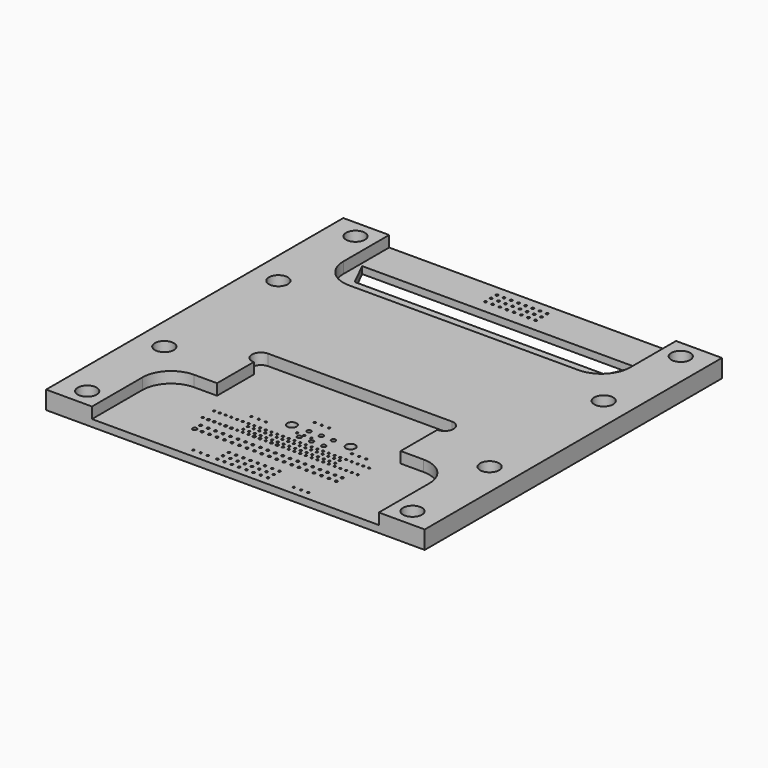
from build123d import *

# Parameters (mm, degrees)
F0_W     = 132
F0_H     = 129.5
F1_DEPTH = 6.3
F3_DEPTH = 3.85
F5_DEPTH = 25
F6_R     = 3.3
F7_DEPTH = 25
F8_R     = 0.425
F8_R_2   = 0.4
F8_R_3   = 0.45
F8_R_4   = 0.74
F8_R_5   = 0.35
F8_R_6   = 0.465
F8_R_7   = 0.75
F8_R_8   = 1.65
F9_DEPTH = 25


with BuildPart() as f1:
    # F0 (on Top) → F1 (new body)
    with BuildSketch(Plane.XY):
        Rectangle(F0_W, F0_H)
    extrude(amount=F1_DEPTH)

    # F2 (on face) → F3 (cut)
    with BuildSketch(Plane.XY.offset(6.3)):
        with BuildLine():
            Line((-50, -42.75), (-50, -64.75))
            Line((-50, -64.75), (50, -64.75))
            Line((50, -64.75), (50, -42.75))
            ThreePointArc((50, -42.75), (47.071068, -35.678932), (40, -32.75))
            Line((40, -32.75), (32, -32.75))
            Line((32, -32.75), (32, -16.75))
            ThreePointArc((32, -16.75), (35.15, -13.6), (32, -10.45))
            Line((32, -10.45), (-32, -10.45))
            ThreePointArc((-32, -10.45), (-35.15, -13.6), (-32, -16.75))
            Line((-32, -16.75), (-32, -32.75))
            Line((-32, -32.75), (-40, -32.75))
            ThreePointArc((-40, -32.75), (-47.071068, -35.678932), (-50, -42.75))
        make_face()
        with BuildLine():
            Line((50, 64.75), (-50, 64.75))
            Line((-50, 64.75), (-50, 44.75))
            ThreePointArc((-50, 44.75), (-47.071068, 37.678932), (-40, 34.75))
            Line((-40, 34.75), (40, 34.75))
            ThreePointArc((40, 34.75), (47.071068, 37.678932), (50, 44.75))
            Line((50, 44.75), (50, 64.75))
        make_face()
    extrude(amount=-F3_DEPTH, mode=Mode.SUBTRACT)

    # F4 (on face) → F5 (cut)
    with BuildSketch(Plane.XY.offset(2.45)):
        Polygon((46.5369, 51.62), (-48.897639, 51.62), (-44.645671, 43.02), (42.682353, 43.02), align=None)
    extrude(amount=-F5_DEPTH, mode=Mode.SUBTRACT)

    # F6 (on face) → F7 (cut)
    with BuildSketch(Plane.XY.offset(6.3)):
        with Locations((-56.7, 58.45)):
            Circle(F6_R)
        with Locations((-56.7, 24.85)):
            Circle(F6_R)
        with Locations((-56.7, -24.85)):
            Circle(F6_R)
        with Locations((-56.7, -58.45)):
            Circle(F6_R)
        with Locations((56.7, -58.45)):
            Circle(F6_R)
        with Locations((56.7, -24.85)):
            Circle(F6_R)
        with Locations((56.7, 24.85)):
            Circle(F6_R)
        with Locations((56.7, 58.45)):
            Circle(F6_R)
    extrude(amount=-F7_DEPTH, mode=Mode.SUBTRACT)

    # F8 (on face) → F9 (cut)
    with BuildSketch(Plane.XY.offset(2.45)):
        with Locations((-9.575, 61.175)):
            Circle(F8_R)
        with Locations((-8.6, -61.85)):
            Circle(F8_R_2)
        with Locations((-8.6, -59.35)):
            Circle(F8_R_2)
        with Locations((-8.6, -56.85)):
            Circle(F8_R_2)
        with Locations((-6.08, -61.85)):
            Circle(F8_R_2)
        with Locations((-6.08, -59.35)):
            Circle(F8_R_2)
        with Locations((-6.08, -56.85)):
            Circle(F8_R_2)
        with Locations((-3.56, -61.85)):
            Circle(F8_R_2)
        with Locations((-3.56, -59.35)):
            Circle(F8_R_2)
        with Locations((-3.56, -56.85)):
            Circle(F8_R_2)
        with Locations((-1.04, -61.85)):
            Circle(F8_R_2)
        with Locations((-1.04, -59.35)):
            Circle(F8_R_2)
        with Locations((-1.04, -56.85)):
            Circle(F8_R_2)
        with Locations((1.48, -61.85)):
            Circle(F8_R_2)
        with Locations((1.48, -59.35)):
            Circle(F8_R_2)
        with Locations((1.48, -56.85)):
            Circle(F8_R_2)
        with Locations((4, -61.85)):
            Circle(F8_R_2)
        with Locations((4, -59.35)):
            Circle(F8_R_2)
        with Locations((4, -56.85)):
            Circle(F8_R_2)
        with Locations((6.52, -61.85)):
            Circle(F8_R_2)
        with Locations((6.52, -59.35)):
            Circle(F8_R_2)
        with Locations((6.52, -56.85)):
            Circle(F8_R_2)
        with Locations((9.04, -61.85)):
            Circle(F8_R_2)
        with Locations((9.04, -59.35)):
            Circle(F8_R_2)
        with Locations((9.04, -56.85)):
            Circle(F8_R_2)
        with Locations((-9.575, 58.675)):
            Circle(F8_R)
        with Locations((-9.575, 56.175)):
            Circle(F8_R)
        with Locations((-7.075, 61.175)):
            Circle(F8_R)
        with Locations((-7.075, 58.675)):
            Circle(F8_R)
        with Locations((-7.075, 56.175)):
            Circle(F8_R)
        with Locations((-4.575, 61.175)):
            Circle(F8_R)
        with Locations((-4.575, 58.675)):
            Circle(F8_R)
        with Locations((-4.575, 56.175)):
            Circle(F8_R)
        with Locations((-2.075, 61.175)):
            Circle(F8_R)
        with Locations((-2.075, 58.675)):
            Circle(F8_R)
        with Locations((-2.075, 56.175)):
            Circle(F8_R)
        with Locations((0.425, 61.175)):
            Circle(F8_R)
        with Locations((0.425, 58.675)):
            Circle(F8_R)
        with Locations((0.425, 56.175)):
            Circle(F8_R)
        with Locations((2.925, 61.175)):
            Circle(F8_R)
        with Locations((2.925, 58.675)):
            Circle(F8_R)
        with Locations((2.925, 56.175)):
            Circle(F8_R)
        with Locations((5.425, 61.175)):
            Circle(F8_R)
        with Locations((5.425, 58.675)):
            Circle(F8_R)
        with Locations((5.425, 56.175)):
            Circle(F8_R)
        with Locations((7.925, 61.175)):
            Circle(F8_R)
        with Locations((7.925, 58.675)):
            Circle(F8_R)
        with Locations((7.925, 56.175)):
            Circle(F8_R)
        with Locations((-24.55, -49.2)):
            Circle(F8_R_3)
        with Locations((-21.95, -51.8)):
            Circle(F8_R_3)
        with Locations((-21.95, -49.2)):
            Circle(F8_R_3)
        with Locations((-19.35, -51.8)):
            Circle(F8_R_3)
        with Locations((-19.35, -49.2)):
            Circle(F8_R_3)
        with Locations((-16.75, -51.8)):
            Circle(F8_R_3)
        with Locations((-16.75, -49.2)):
            Circle(F8_R_3)
        with Locations((-14.15, -51.8)):
            Circle(F8_R_3)
        with Locations((-14.15, -49.2)):
            Circle(F8_R_3)
        with Locations((-11.55, -51.8)):
            Circle(F8_R_3)
        with Locations((-11.55, -49.2)):
            Circle(F8_R_3)
        with Locations((-8.95, -51.8)):
            Circle(F8_R_3)
        with Locations((-8.95, -49.2)):
            Circle(F8_R_3)
        with Locations((-6.35, -51.8)):
            Circle(F8_R_3)
        with Locations((-6.35, -49.2)):
            Circle(F8_R_3)
        with Locations((-3.75, -51.8)):
            Circle(F8_R_3)
        with Locations((-3.75, -49.2)):
            Circle(F8_R_3)
        with Locations((-1.15, -51.8)):
            Circle(F8_R_3)
        with Locations((-1.15, -49.2)):
            Circle(F8_R_3)
        with Locations((1.45, -51.8)):
            Circle(F8_R_3)
        with Locations((1.45, -49.2)):
            Circle(F8_R_3)
        with Locations((4.05, -51.8)):
            Circle(F8_R_3)
        with Locations((4.05, -49.2)):
            Circle(F8_R_3)
        with Locations((6.65, -51.8)):
            Circle(F8_R_3)
        with Locations((6.65, -49.2)):
            Circle(F8_R_3)
        with Locations((9.25, -51.8)):
            Circle(F8_R_3)
        with Locations((9.25, -49.2)):
            Circle(F8_R_3)
        with Locations((11.85, -51.8)):
            Circle(F8_R_3)
        with Locations((11.85, -49.2)):
            Circle(F8_R_3)
        with Locations((14.45, -51.8)):
            Circle(F8_R_3)
        with Locations((14.45, -49.2)):
            Circle(F8_R_3)
        with Locations((17.05, -51.8)):
            Circle(F8_R_3)
        with Locations((17.05, -49.2)):
            Circle(F8_R_3)
        with Locations((19.65, -51.8)):
            Circle(F8_R_3)
        with Locations((19.65, -49.2)):
            Circle(F8_R_3)
        with Locations((22.25, -51.8)):
            Circle(F8_R_3)
        with Locations((22.25, -49.2)):
            Circle(F8_R_3)
        with Locations((24.85, -51.8)):
            Circle(F8_R_3)
        with Locations((24.85, -49.2)):
            Circle(F8_R_3)
        with Locations((-24.55, -51.8)):
            Circle(F8_R_4)
        with Locations((-12, -61.8)):
            Circle(F8_R_5)
        with Locations((-27.05, -45.2)):
            Circle(F8_R_5)
        with Locations((-27.05, -40.2)):
            Circle(F8_R_5)
        with Locations((-25.05, -40.2)):
            Circle(F8_R_5)
        with Locations((-23.05, -40.2)):
            Circle(F8_R_5)
        with Locations((-21.05, -45.2)):
            Circle(F8_R_5)
        with Locations((-21.05, -40.2)):
            Circle(F8_R_5)
        with Locations((-19.05, -40.2)):
            Circle(F8_R_5)
        with Locations((-17.05, -40.2)):
            Circle(F8_R_5)
        with Locations((-15.05, -45.2)):
            Circle(F8_R_5)
        with Locations((-15.05, -40.2)):
            Circle(F8_R_5)
        with Locations((-13.05, -45.2)):
            Circle(F8_R_5)
        with Locations((-13.05, -40.2)):
            Circle(F8_R_5)
        with Locations((-11.05, -45.2)):
            Circle(F8_R_5)
        with Locations((-11.05, -40.2)):
            Circle(F8_R_5)
        with Locations((-9.05, -40.2)):
            Circle(F8_R_5)
        with Locations((-7.05, -40.2)):
            Circle(F8_R_5)
        with Locations((-5.05, -45.2)):
            Circle(F8_R_5)
        with Locations((-5.05, -40.2)):
            Circle(F8_R_5)
        with Locations((-3.05, -40.2)):
            Circle(F8_R_5)
        with Locations((-1.05, -40.2)):
            Circle(F8_R_5)
        with Locations((0.95, -45.2)):
            Circle(F8_R_5)
        with Locations((0.95, -40.2)):
            Circle(F8_R_5)
        with Locations((2.95, -45.2)):
            Circle(F8_R_5)
        with Locations((2.95, -40.2)):
            Circle(F8_R_5)
        with Locations((4.95, -45.2)):
            Circle(F8_R_5)
        with Locations((4.95, -40.2)):
            Circle(F8_R_5)
        with Locations((6.95, -45.2)):
            Circle(F8_R_5)
        with Locations((6.95, -40.2)):
            Circle(F8_R_5)
        with Locations((8.95, -45.2)):
            Circle(F8_R_5)
        with Locations((8.95, -40.2)):
            Circle(F8_R_5)
        with Locations((10.95, -45.2)):
            Circle(F8_R_5)
        with Locations((10.95, -40.2)):
            Circle(F8_R_5)
        with Locations((12.95, -45.2)):
            Circle(F8_R_5)
        with Locations((12.95, -40.2)):
            Circle(F8_R_5)
        with Locations((14.95, -45.2)):
            Circle(F8_R_5)
        with Locations((14.95, -40.2)):
            Circle(F8_R_5)
        with Locations((16.95, -45.2)):
            Circle(F8_R_5)
        with Locations((16.95, -40.2)):
            Circle(F8_R_5)
        with Locations((18.95, -45.2)):
            Circle(F8_R_5)
        with Locations((18.95, -40.2)):
            Circle(F8_R_5)
        with Locations((20.95, -45.2)):
            Circle(F8_R_5)
        with Locations((20.95, -40.2)):
            Circle(F8_R_5)
        with Locations((22.95, -45.2)):
            Circle(F8_R_5)
        with Locations((22.95, -40.2)):
            Circle(F8_R_5)
        with Locations((24.95, -45.2)):
            Circle(F8_R_5)
        with Locations((24.95, -40.2)):
            Circle(F8_R_5)
        with Locations((26.95, -45.2)):
            Circle(F8_R_5)
        with Locations((26.95, -40.2)):
            Circle(F8_R_5)
        with Locations((-25.05, -45.2)):
            Circle(F8_R_6)
        with Locations((-23.05, -45.2)):
            Circle(F8_R_6)
        with Locations((-19.05, -45.2)):
            Circle(F8_R_6)
        with Locations((-17.05, -45.2)):
            Circle(F8_R_6)
        with Locations((-9.05, -45.2)):
            Circle(F8_R_6)
        with Locations((-7.05, -45.2)):
            Circle(F8_R_6)
        with Locations((-3.05, -45.2)):
            Circle(F8_R_6)
        with Locations((-1.05, -45.2)):
            Circle(F8_R_6)
        with Locations((-14.05, -43.7)):
            Circle(F8_R_5)
        with Locations((-14.05, -41.7)):
            Circle(F8_R_5)
        with Locations((-12.05, -43.7)):
            Circle(F8_R_5)
        with Locations((-12.05, -41.7)):
            Circle(F8_R_5)
        with Locations((-10.05, -43.7)):
            Circle(F8_R_5)
        with Locations((-10.05, -41.7)):
            Circle(F8_R_5)
        with Locations((-8.05, -43.7)):
            Circle(F8_R_5)
        with Locations((-8.05, -41.7)):
            Circle(F8_R_5)
        with Locations((-6.05, -43.7)):
            Circle(F8_R_5)
        with Locations((-6.05, -41.7)):
            Circle(F8_R_5)
        with Locations((-4.05, -43.7)):
            Circle(F8_R_5)
        with Locations((-4.05, -41.7)):
            Circle(F8_R_5)
        with Locations((-2.05, -43.7)):
            Circle(F8_R_5)
        with Locations((-2.05, -41.7)):
            Circle(F8_R_5)
        with Locations((-0.05, -43.7)):
            Circle(F8_R_5)
        with Locations((-0.05, -41.7)):
            Circle(F8_R_5)
        with Locations((1.95, -43.7)):
            Circle(F8_R_5)
        with Locations((1.95, -41.7)):
            Circle(F8_R_5)
        with Locations((3.95, -43.7)):
            Circle(F8_R_5)
        with Locations((3.95, -41.7)):
            Circle(F8_R_5)
        with Locations((5.95, -43.7)):
            Circle(F8_R_5)
        with Locations((5.95, -41.7)):
            Circle(F8_R_5)
        with Locations((7.95, -43.7)):
            Circle(F8_R_5)
        with Locations((7.95, -41.7)):
            Circle(F8_R_5)
        with Locations((9.95, -43.7)):
            Circle(F8_R_5)
        with Locations((9.95, -41.7)):
            Circle(F8_R_5)
        with Locations((11.95, -43.7)):
            Circle(F8_R_5)
        with Locations((11.95, -41.7)):
            Circle(F8_R_5)
        with Locations((13.95, -43.7)):
            Circle(F8_R_5)
        with Locations((13.95, -41.7)):
            Circle(F8_R_5)
        with Locations((15.95, -43.7)):
            Circle(F8_R_5)
        with Locations((15.95, -41.7)):
            Circle(F8_R_5)
        with Locations((17.95, -43.7)):
            Circle(F8_R_5)
        with Locations((17.95, -41.7)):
            Circle(F8_R_5)
        with Locations((0.65, -37.7)):
            Circle(F8_R_7)
        with Locations((0.65, -33.45)):
            Circle(F8_R_7)
        with Locations((4.9, -37.7)):
            Circle(F8_R_7)
        with Locations((4.9, -33.45)):
            Circle(F8_R_7)
        with Locations((9.15, -37.7)):
            Circle(F8_R_7)
        with Locations((9.15, -33.45)):
            Circle(F8_R_7)
        with Locations((-12, -36.5)):
            Circle(F8_R_5)
        with Locations((-14.5, -61.8)):
            Circle(F8_R_5)
        with Locations((-14.5, -36.5)):
            Circle(F8_R_5)
        with Locations((-17, -61.8)):
            Circle(F8_R_5)
        with Locations((-17, -36.5)):
            Circle(F8_R_5)
        with Locations((18.04, -61.8)):
            Circle(F8_R_5)
        with Locations((18.04, -36.5)):
            Circle(F8_R_5)
        with Locations((20.54, -61.8)):
            Circle(F8_R_5)
        with Locations((20.54, -36.5)):
            Circle(F8_R_5)
        with Locations((23.04, -61.8)):
            Circle(F8_R_5)
        with Locations((23.04, -36.5)):
            Circle(F8_R_5)
        with Locations((-1.35, -36.2)):
            Circle(F8_R_5)
        with Locations((-1.35, -28.5)):
            Circle(F8_R_5)
        with Locations((1.15, -36.2)):
            Circle(F8_R_5)
        with Locations((1.15, -28.5)):
            Circle(F8_R_5)
        with Locations((3.65, -36.2)):
            Circle(F8_R_5)
        with Locations((3.65, -28.5)):
            Circle(F8_R_5)
        with Locations((15.15, -33.45)):
            Circle(F8_R_8)
        with Locations((-5.35, -33.45)):
            Circle(F8_R_8)
    extrude(amount=-F9_DEPTH, mode=Mode.SUBTRACT)


solid = f1.part
